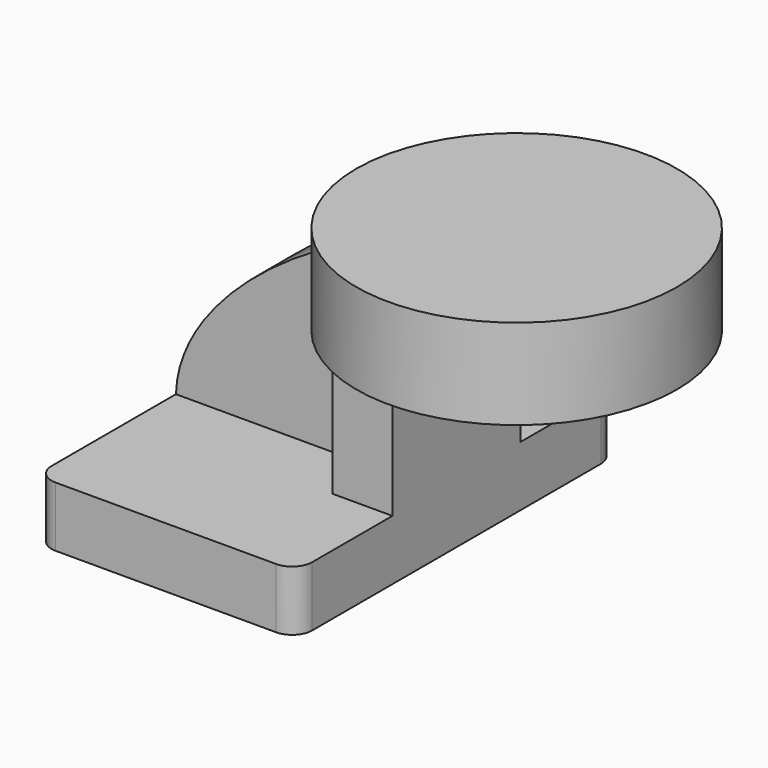
from build123d import *

# Parameters (mm, degrees)
F1_DEPTH = 63.5
F2_DEPTH = 7.9375
F3_DEPTH = 25.4
F5_R     = 6.35


with BuildPart() as f1:
    # F0 (on Front) → F1 (new body, symmetric)
    with BuildSketch(Plane.XZ):
        Polygon((-41.275, 9.525), (-41.275, -9.525), (41.275, -9.525), (41.275, 9.525), (22.225, 9.525), align=None)
    extrude(amount=F1_DEPTH, both=True)

    # F0 (on Front) → F2 (join, symmetric)
    with BuildSketch(Plane.XZ):
        with BuildLine():
            add(Edge.make_bspline(
                [(-41.275, 9.525), (-40.209185, 45.154918), (21.977982, 81.660934), (57.15, 80.9752)],
                knots=[0, 0, 0, 0, 121.624881, 121.624881, 121.624881, 121.624881], degree=3))
            Line((-41.275, 9.525), (22.225, 9.525))
            Line((22.225, 9.525), (22.225, 46.0502))
            ThreePointArc((22.225, 46.0502), (32.454296, 70.745904), (57.15, 80.9752))
        make_face()
    extrude(amount=F2_DEPTH, both=True)

    # F0 (on Front) → F3 (join, symmetric)
    with BuildSketch(Plane.XZ):
        with BuildLine():
            Line((22.225, 9.525), (41.275, 9.525))
            Line((41.275, 9.525), (41.275, 46.0502))
            ThreePointArc((41.275, 46.0502), (45.92468, 57.27552), (57.15, 61.9252))
            Line((57.15, 61.9252), (60.325, 61.9252))
            Line((60.325, 61.9252), (60.325, 80.9752))
            Line((60.325, 80.9752), (57.15, 80.9752))
            ThreePointArc((57.15, 80.9752), (32.454296, 70.745904), (22.225, 46.0502))
            Line((22.225, 46.0502), (22.225, 9.525))
        make_face()
    extrude(amount=F3_DEPTH, both=True)

    # F0 (on Front) → F4 (revolve)
    with BuildSketch(Plane.XZ):
        Polygon((60.325, 85.725), (60.325, 80.9752), (85.754924, 80.9752), (85.754924, 61.9252), (60.325, 61.9252), (60.325, 57.15), (111.125, 57.15), (111.125, 85.725), align=None)
    revolve(axis=Axis((60.325, 0, 71.4375), (0, 0, -1)))

    # F5
    f5_edges = [f1.edges().sort_by_distance(p)[0] for p in [
        (41.275, -63.5, 0),
        (-41.275, -63.5, 0),
        (41.275, 63.5, 0),
        (-41.275, 63.5, 0),
    ]]
    fillet(f5_edges, radius=F5_R)


solid = f1.part
